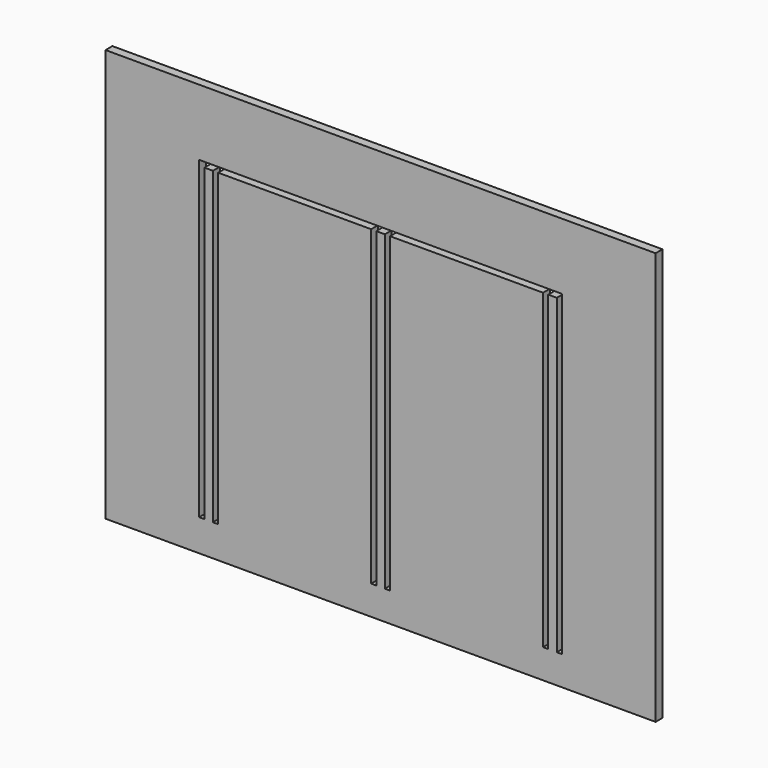
from build123d import *

# Parameters (mm, degrees)
F0_W     = 406.4
F0_H     = 304.8
F0_W_2   = 6.35
F0_H_2   = 46.99
F0_H_3   = 27.305
F0_H_4   = 228.6
F0_H_5   = 230.505
F0_H_6   = 45.085
F1_DEPTH = 6.35


with BuildPart() as f1:
    # F0 (on Front) → F1 (new body)
    with BuildSketch(Plane.XZ):
        Rectangle(F0_W, F0_H)
        Polygon((-3.175, 130.81), (3.175, 130.81), (3.175, 103.505), (6.985, 103.505), (120.015, 103.505), (123.825, 103.505), (123.825, 148.59), (130.175, 148.59), (130.175, 103.505), (133.985, 103.505), (133.985, 99.695), (133.985, -130.81), (130.175, -130.81), (123.825, -130.81), (120.015, -130.81), (120.015, 99.695), (6.985, 99.695), (6.985, -130.81), (3.175, -130.81), (-3.175, -130.81), (-6.985, -130.81), (-6.985, 99.695), (-120.015, 99.695), (-120.015, -128.905), (-123.825, -128.905), (-130.175, -128.905), (-133.985, -128.905), (-133.985, 99.695), (-133.985, 103.505), (-130.175, 103.505), (-130.175, 150.495), (-123.825, 150.495), (-123.825, 103.505), (-120.015, 103.505), (-6.985, 103.505), (-3.175, 103.505), align=None, mode=Mode.SUBTRACT)
        with Locations((-127, 127)):
            Rectangle(F0_W_2, F0_H_2)
        with Locations((0, 117.1575)):
            Rectangle(F0_W_2, F0_H_3)
        with Locations((-127, -14.605)):
            Rectangle(F0_W_2, F0_H_4)
        with Locations((0, -15.5575)):
            Rectangle(F0_W_2, F0_H_5)
        with Locations((127, 126.0475)):
            Rectangle(F0_W_2, F0_H_6)
        with Locations((127, -15.5575)):
            Rectangle(F0_W_2, F0_H_5)
    extrude(amount=-F1_DEPTH)


solid = f1.part
